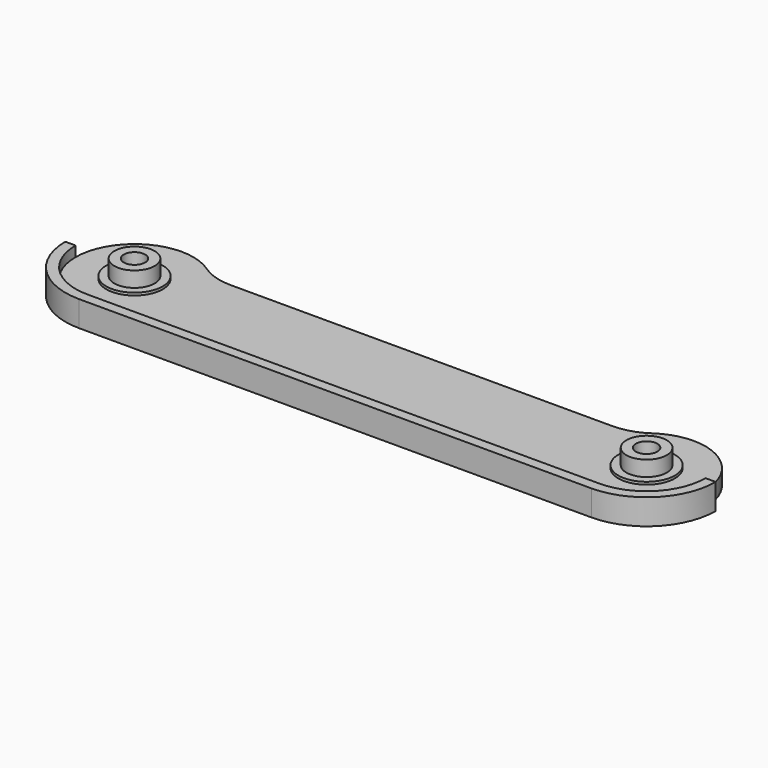
from build123d import *

# Parameters (mm, degrees)
F1_DEPTH = 3
F3_DEPTH = 5
F4_R     = 3.95
F5_DEPTH = 3.5
F6_R     = 2.1
F7_DEPTH = 25
F8_R     = 5.510522
F8_R_2   = 3.95
F9_DEPTH = 0.5


with BuildPart() as f1:
    # F0 (on Top) → F1 (new body)
    with BuildSketch(Plane.XY):
        with BuildLine():
            ThreePointArc((-50, 10.487979), (-61.5, -1.012021), (-50, -12.512021))
            Line((-50, -12.512021), (0, -12.512021))
            Line((0, -12.512021), (50, -12.512021))
            ThreePointArc((50, -12.512021), (61.5, -1.012021), (50, 10.487979))
            ThreePointArc((50, 10.487979), (46.593573, 9.971888), (43.49289, 8.469937))
            ThreePointArc((43.49289, 8.469937), (40.537466, 7.038348), (37.290622, 6.546434))
            Line((37.290622, 6.546434), (0, 6.546434))
            Line((0, 6.546434), (-37.290622, 6.546434))
            ThreePointArc((-37.290622, 6.546434), (-40.537466, 7.038348), (-43.49289, 8.469937))
            ThreePointArc((-43.49289, 8.469937), (-46.593573, 9.971888), (-50, 10.487979))
        make_face()
    extrude(amount=F1_DEPTH)

    # F2 (on face) → F3 (join)
    with BuildSketch(Plane.XY):
        with BuildLine():
            ThreePointArc((-63.5, -1.012021), (-59.545942, -10.557963), (-50, -14.512021))
            Line((-50, -14.512021), (50, -14.512021))
            ThreePointArc((50, -14.512021), (59.545942, -10.557963), (63.5, -1.012021))
            Line((63.5, -1.012021), (61.5, -1.012021))
            ThreePointArc((61.5, -1.012021), (58.131728, -9.143749), (50, -12.512021))
            Line((50, -12.512021), (-50, -12.512021))
            ThreePointArc((-50, -12.512021), (-58.131728, -9.143749), (-61.5, -1.012021))
            Line((-61.5, -1.012021), (-63.5, -1.012021))
        make_face()
    extrude(amount=F3_DEPTH)

    # F4 (on face) → F5 (join)
    with BuildSketch(Plane.XY.offset(3)):
        with Locations((-50, -1.012021)):
            Circle(F4_R)
        with Locations((50, -1.012021)):
            Circle(F4_R)
    extrude(amount=F5_DEPTH)

    # F6 (on face) → F7 (cut)
    with BuildSketch(Plane.XY.offset(6.5)):
        with Locations((-50, -1.012021)):
            Circle(F6_R)
        with Locations((50, -1.012021)):
            Circle(F6_R)
    extrude(amount=-F7_DEPTH, mode=Mode.SUBTRACT)

    # F8 (on face) → F9 (join)
    with BuildSketch(Plane.XY.offset(3)):
        with Locations((-50, -1.012021)):
            Circle(F8_R)
        with Locations((-50, -1.012021)):
            Circle(F8_R_2, mode=Mode.SUBTRACT)
        with Locations((50, -1.012021)):
            Circle(F8_R)
        with Locations((50, -1.012021)):
            Circle(F8_R_2, mode=Mode.SUBTRACT)
    extrude(amount=F9_DEPTH)


solid = f1.part
